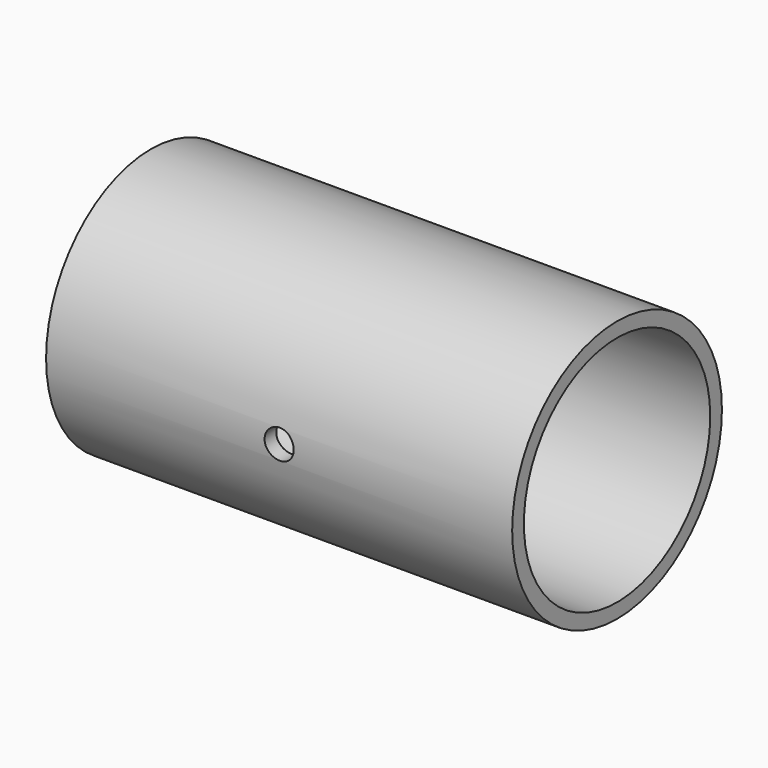
from build123d import *

# Parameters (mm, degrees)
F0_R     = 57.15
F0_R_2   = 50.7746
F1_DEPTH = 101.6
F2_R     = 6.35
F3_DEPTH = 57.151


with BuildPart() as f1:
    # F0 (on Right) → F1 (new body, symmetric)
    with BuildSketch(Plane.YZ):
        Circle(F0_R)
        Circle(F0_R_2, mode=Mode.SUBTRACT)
    extrude(amount=F1_DEPTH, both=True)

    # F2 (on Front) → F3 (cut, through all)
    with BuildSketch(Plane.XZ):
        Circle(F2_R)
    extrude(amount=F3_DEPTH, mode=Mode.SUBTRACT)


solid = f1.part
